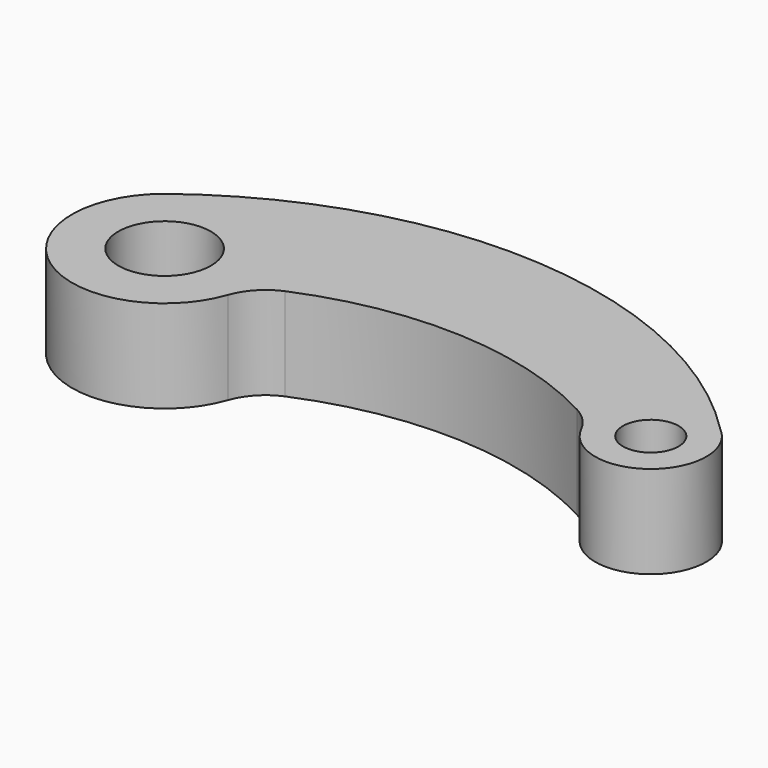
from build123d import *

# Parameters (mm, degrees)
F0_R     = 12.5
F0_R_2   = 7.5
F1_DEPTH = 25


with BuildPart() as f1:
    # F0 (on Top) → F1 (new body)
    with BuildSketch(Plane.XY):
        with BuildLine():
            ThreePointArc((72.567013, 61.385173), (-4.822021, 96.767399), (-86.213806, 71.941162))
            ThreePointArc((-86.213806, 71.941162), (-84.691521, 32.104929), (-46.76355, 44.381405))
            ThreePointArc((-46.76355, 44.381405), (-43.543389, 49.706376), (-38.439264, 53.266243))
            ThreePointArc((-38.439264, 53.266243), (2.871879, 60.669961), (43.341674, 49.551455))
            ThreePointArc((43.341674, 49.551455), (47.018279, 46.786549), (49.684065, 43.037454))
            ThreePointArc((49.684065, 43.037454), (72.480393, 38.049741), (72.567013, 61.385173))
        make_face()
        with Locations((-70.374292, 52.599244)):
            Circle(F0_R, mode=Mode.SUBTRACT)
        with Locations((63.097075, 49.752448)):
            Circle(F0_R_2, mode=Mode.SUBTRACT)
    extrude(amount=F1_DEPTH)


solid = f1.part
